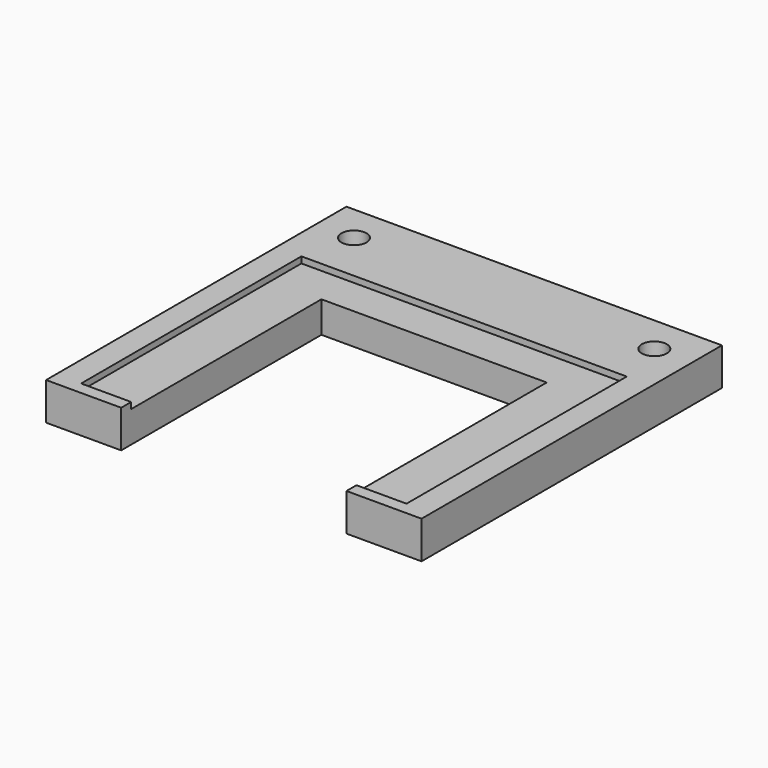
from build123d import *

# Parameters (mm, degrees)
PAD_DEPTH       = 3
SKETCH001_R     = 1
POCKET_DEPTH    = 3
SKETCH002_W     = 26
SKETCH002_H     = 22
POCKET001_DEPTH = 0.5


with BuildPart() as part:
    # Sketch → Pad (new body)
    with BuildSketch(Plane.XY):
        Polygon((15, -15), (15, 15), (-15, 15), (-15, -15), (-9, -15), (-9, 5), (9, 5), (9, -15), align=None)
    extrude(amount=PAD_DEPTH)

    # Sketch001 (on Face10 of Pad) → Pocket (cut)
    with BuildSketch(Plane.XY.offset(3)):
        with Locations((-12, 12)):
            Circle(SKETCH001_R)
        with Locations((12, 12)):
            Circle(SKETCH001_R)
    extrude(amount=-POCKET_DEPTH, mode=Mode.SUBTRACT)

    # Sketch002 (on Face5 of Pocket) → Pocket001 (cut)
    with BuildSketch(Plane.XY.offset(3)):
        with Locations((0, -3)):
            Rectangle(SKETCH002_W, SKETCH002_H)
    extrude(amount=-POCKET001_DEPTH, mode=Mode.SUBTRACT)


solid = part.part
